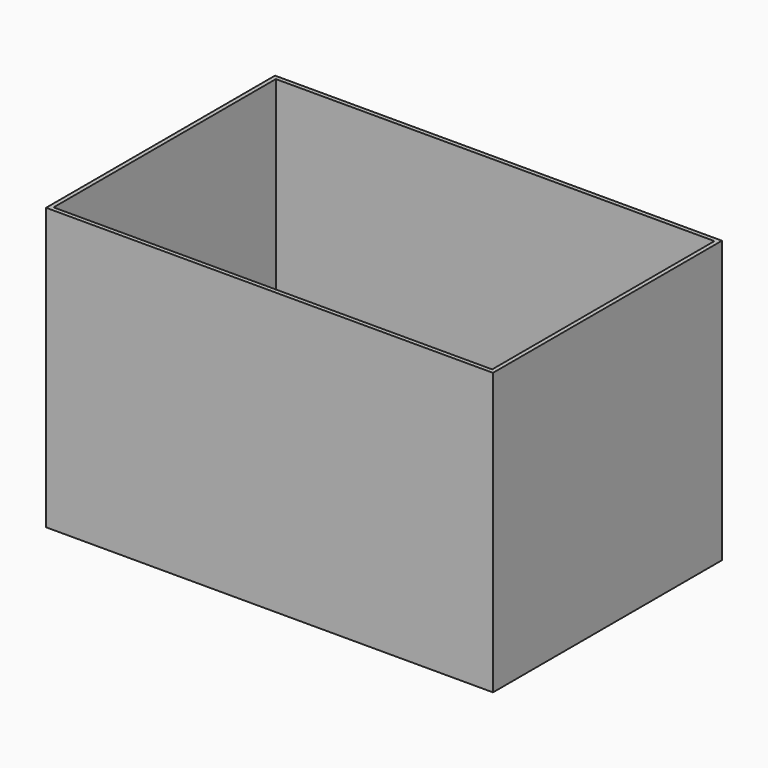
from build123d import *

# Parameters (mm, degrees)
F0_W     = 645
F0_H     = 413
F0_W_2   = 633
F0_H_2   = 401
F1_DEPTH = 400
F2_W     = 645
F2_H     = 413
F3_DEPTH = 6


with BuildPart() as f1:
    # F0 (on Top) → F1 (new body)
    with BuildSketch(Plane.XY):
        Rectangle(F0_W, F0_H)
        Rectangle(F0_W_2, F0_H_2, mode=Mode.SUBTRACT)
    extrude(amount=-F1_DEPTH)

    # F2 (on face) → F3 (join)
    with BuildSketch(Plane(origin=(0, 0, -400), x_dir=(1, 0, 0), z_dir=(0, 0, -1))):
        Rectangle(F2_W, F2_H)
    extrude(amount=F3_DEPTH)


solid = f1.part
